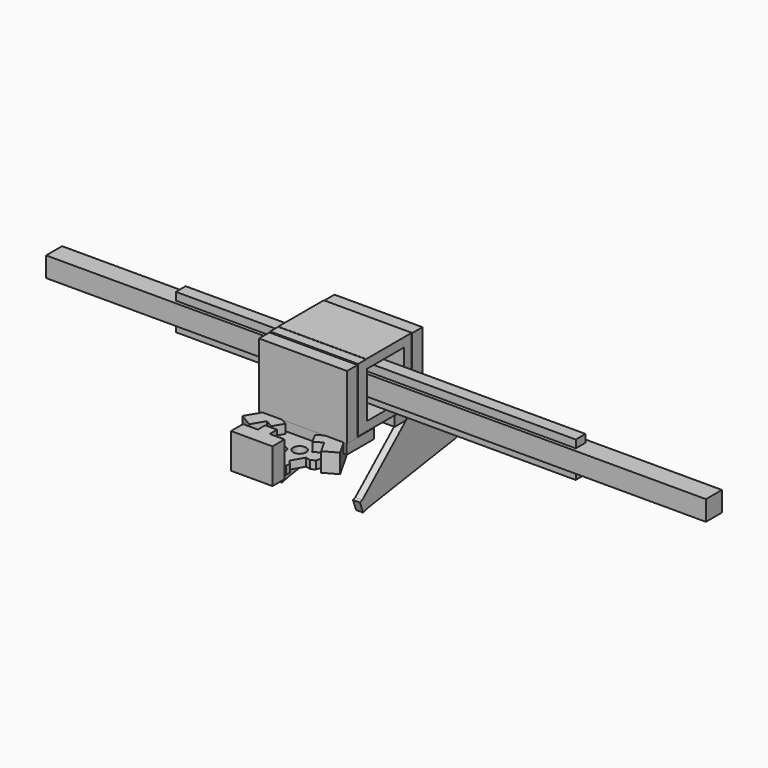
from build123d import *

# Parameters (mm, degrees)
EXTRUDE016_DEPTH                          = 88
EXTRUDE016_ROLL_ANGLE                     = -90
EXTRUDE016_PLACEMENT_ANGLE                = -90
EXTRUDE027_DEPTH                          = 88
EXTRUDE027_ROLL_ANGLE                     = -90
EXTRUDE027_PLACEMENT_ANGLE                = -90
SKETCH025_R                               = 5
SKETCH025_R_2                             = 6.5
EXTRUDE028_DEPTH                          = 8
EXTRUDE028_PLACEMENT_ANGLE                = 180
BOX054_W                                  = 660
BOX054_H                                  = 20
BOX054_DEPTH                              = 20
BOX004_W                                  = 400
BOX004_H                                  = 12.2
BOX004_DEPTH                              = 7.8
BOX053_W                                  = 47.55
BOX053_H                                  = 27.1
BOX053_DEPTH                              = 13
BOX002_W                                  = 400
BOX002_H                                  = 12.2
BOX002_DEPTH                              = 7.8
BOX013_W                                  = 47.55
BOX013_H                                  = 27.1
BOX013_DEPTH                              = 13
SKETCH020_W                               = 87.248978
SKETCH020_H                               = 34.299007
EXTRUDE024_DEPTH                          = 10
EXTRUDE025_DEPTH                          = 19
EXTRUDE019_DEPTH                          = 19
EXTRUDE022_DEPTH                          = 35
SKETCH021_W                               = 88
SKETCH021_H                               = 13
EXTRUDE023_DEPTH                          = 64
FUSION_PLACEMENT_ANGLE                    = 180
EXTRUDE026_DEPTH                          = 7
EXTRUDE026_ONTO_SKETCH028_ROLL_ANGLE      = 90
EXTRUDE026_ONTO_SKETCH028_PITCH_ANGLE     = -30
EXTRUDE026_ONTO_SKETCH028_PLACEMENT_ANGLE = -90
SKETCH017_W                               = 87.248978
SKETCH017_H                               = 34.299007
EXTRUDE021_DEPTH                          = 10
EXTRUDE017_DEPTH                          = 7
EXTRUDE017_ONTO_SKETCH016_ROLL_ANGLE      = 90
EXTRUDE017_ONTO_SKETCH016_PITCH_ANGLE     = -30
EXTRUDE017_ONTO_SKETCH016_PLACEMENT_ANGLE = -90
SKETCH019_W                               = 88
SKETCH019_H                               = 88
SKETCH019_R                               = 38
EXTRUDE018_DEPTH                          = 7
EXTRUDE018_PLACEMENT_ANGLE                = 30
SKETCH018_W                               = 88
SKETCH018_H                               = 13
EXTRUDE020_DEPTH                          = 64


with BuildPart() as extrude016:
    # Sketch026 → Extrude016 (new body)
    with BuildSketch(Plane.XY):
        Polygon((64.054652, 96.165242), (64.054652, 32.165242), (121.054652, 32.165242), (121.054652, 41.165242), (74.054652, 41.165242), (74.054652, 87.165242), (121.054652, 87.165242), (121.054652, 96.165242), align=None)
    extrude(amount=EXTRUDE016_DEPTH)


with BuildPart() as extrude016_1:
    # Extrude016 roll: moved
    add(extrude016.part.rotate(Axis((0, 0, 0), (1, 0, 0)), EXTRUDE016_ROLL_ANGLE))


with BuildPart() as extrude016_2:
    # Extrude016 placement: moved
    add(extrude016_1.part.moved(Location((173, 108, 74))).rotate(Axis((173, 108, 74), (0, 0, 1)), EXTRUDE016_PLACEMENT_ANGLE))


with BuildPart() as extrude027:
    # Sketch027 → Extrude027 (new body)
    with BuildSketch(Plane.XY):
        Polygon((40.130428, 23.337914), (40.130428, 69.237914), (41.130428, 69.237914), (41.130428, 78.237914), (51.130428, 78.237914), (51.130428, 14.337914), (41.130428, 14.337914), (41.130428, 23.337914), align=None)
    extrude(amount=EXTRUDE027_DEPTH)


with BuildPart() as extrude027_1:
    # Extrude027 roll: moved
    add(extrude027.part.rotate(Axis((0, 0, 0), (1, 0, 0)), EXTRUDE027_ROLL_ANGLE))


with BuildPart() as extrude027_2:
    # Extrude027 placement: moved
    add(extrude027_1.part.moved(Location((173, 28, 56))).rotate(Axis((173, 28, 56), (0, 0, 1)), EXTRUDE027_PLACEMENT_ANGLE))


with BuildPart() as obj1:
    # Sketch025 → Extrude028 (new body)
    with BuildSketch(Plane.XY):
        Polygon((92.138212, 71.477997), (99.138212, 59.353641), (104.147683, 60.457133), (108.020931, 58.166292), (109.466872, 53.244732), (104.121576, 44.207154), (96.375081, 48.788836), (90.266171, 38.460176), (98.012666, 33.878494), (92.66737, 24.840916), (87.657898, 23.737425), (83.784651, 26.028266), (82.33871, 30.949826), (68.33871, 30.949826), (66.794519, 26.058201), (62.873968, 23.849291), (57.887594, 25.052863), (52.731628, 34.204082), (60.572729, 38.621903), (54.682302, 49.076704), (46.841201, 44.658884), (41.688919, 53.803566), (43.23311, 58.695191), (47.15366, 60.904101), (52.140035, 59.700529), (59.140035, 71.824885), (55.679647, 75.611469), (55.72695, 80.11122), (59.266176, 83.824222), (69.765596, 83.713849), (69.67099, 74.714346), (81.670327, 74.588205), (81.764933, 83.587708), (92.264353, 83.477334), (95.72474, 79.69075), (95.677437, 75.190999), align=None)
        with Locations((76.588238, 60.640856)):
            Circle(SKETCH025_R, mode=Mode.SUBTRACT)
        with Locations((64.201959, 52.770623)):
            Circle(SKETCH025_R_2, mode=Mode.SUBTRACT)
        with Locations((88.200633, 52.51834)):
            Circle(SKETCH025_R_2, mode=Mode.SUBTRACT)
    extrude(amount=EXTRUDE028_DEPTH)


with BuildPart() as obj1_1:
    # Extrude028 placement: moved
    add(obj1.part.moved(Location((292, -2, -40))).rotate(Axis((292, -2, -40), (0, 0, 1)), EXTRUDE028_PLACEMENT_ANGLE))


with BuildPart() as vslot2020:
    # Box054 → Box054 (new body)
    with BuildSketch(Plane(origin=(-70, 0.5, 0), x_dir=(1, 0, 0), z_dir=(0, 0, 1))):
        with Locations((330, 10)):
            Rectangle(BOX054_W, BOX054_H)
    extrude(amount=BOX054_DEPTH)


with BuildPart() as rail_inferior:
    # Box004 → Box004 (new body)
    with BuildSketch(Plane(origin=(57, 4, -7.8), x_dir=(1, 0, 0), z_dir=(0, 0, 1))):
        with Locations((200, 6.1)):
            Rectangle(BOX004_W, BOX004_H)
    extrude(amount=BOX004_DEPTH)


with BuildPart() as mgn12h_inferior:
    # Box053 → Box053 (new body)
    with BuildSketch(Plane(origin=(193, -3, -13), x_dir=(1, 0, 0), z_dir=(0, 0, 1))):
        with Locations((23.775, 13.55)):
            Rectangle(BOX053_W, BOX053_H)
    extrude(amount=BOX053_DEPTH)


with BuildPart() as rail_superior:
    # Box002 → Box002 (new body)
    with BuildSketch(Plane(origin=(57, 4, 20), x_dir=(1, 0, 0), z_dir=(0, 0, 1))):
        with Locations((200, 6.1)):
            Rectangle(BOX002_W, BOX002_H)
    extrude(amount=BOX002_DEPTH)


with BuildPart() as mgn12h_superior:
    # Box013 → Box013 (new body)
    with BuildSketch(Plane(origin=(193, -3, 20), x_dir=(1, 0, 0), z_dir=(0, 0, 1))):
        with Locations((23.775, 13.55)):
            Rectangle(BOX013_W, BOX013_H)
    extrude(amount=BOX013_DEPTH)


with BuildPart() as extrude024:
    # Sketch020 → Extrude024 (new body)
    with BuildSketch(Plane.XY):
        with Locations((83.604523, 30.688192)):
            Rectangle(SKETCH020_W, SKETCH020_H)
    extrude(amount=EXTRUDE024_DEPTH)


with BuildPart() as extrude024_1:
    # Extrude024 placement: moved
    add(extrude024.part.moved(Location((3, 0, 9))))


with BuildPart() as extrude025:
    # Sketch022 → Extrude025 (new body)
    with BuildSketch(Plane.XY):
        Polygon((114.524362, 26.458614), (101.615411, 34.09792), (109.152859, 46.834751), (101.23537, 51.520192), (107.295886, 61.761293), (115.213376, 57.075852), (122.750824, 69.812683), (135.659775, 62.173377), align=None)
    extrude(amount=EXTRUDE025_DEPTH)


with BuildPart() as extrude019:
    # Sketch023 → Extrude019 (new body)
    with BuildSketch(Plane.XY):
        Polygon((37.353531, 63.041878), (50.403561, 70.4376), (57.700674, 57.56157), (65.704692, 62.097613), (71.571965, 51.744589), (63.567946, 47.208546), (70.865059, 34.332516), (57.815029, 26.936794), align=None)
    extrude(amount=EXTRUDE019_DEPTH)


with BuildPart() as extrude022:
    # Sketch024 → Extrude022 (new body)
    with BuildSketch(Plane.XY):
        Polygon((107.534802, 111.722114), (107.500671, 96.722153), (92.700709, 96.755829), (92.679776, 87.555852), (80.779807, 87.582929), (80.80074, 96.782905), (66.000778, 96.816581), (66.034909, 111.816542), align=None)
    extrude(amount=EXTRUDE022_DEPTH)


with BuildPart() as suporte1:
    # Sketch021 → Extrude023 (new body)
    with BuildSketch(Plane.XY):
        with Locations((83.577726, 41.368692)):
            Rectangle(SKETCH021_W, SKETCH021_H)
    extrude(amount=EXTRUDE023_DEPTH)


with BuildPart() as suporte1_1:
    # Extrude023 placement: moved
    add(suporte1.part.moved(Location((3, 0, 19))))

    # Fusion: union Extrude024, Extrude025, Extrude019, Extrude022
    add(extrude024_1.part)
    add(extrude025.part)
    add(extrude019.part)
    add(extrude022.part)


with BuildPart() as suporte1_2:
    # Fusion placement: moved
    add(suporte1_1.part.moved(Location((303.5, 11, -42))).rotate(Axis((303.5, 11, -42), (0, 0, 1)), FUSION_PLACEMENT_ANGLE))


with BuildPart() as extrude026:
    # Sketch028 as drawn → Extrude026 (new)
    with BuildSketch(Plane.XY):
        Polygon((-123.305188, 6.070855), (-123.344503, -1.169558), (-100.406639, -23.66512), (-15.520081, -91.56636), (-9.4672, -97.367993), (-1.018409, -90.281281), (-3.036737, -87.875028), (-34.868234, 6.09489), align=None)
    extrude(amount=EXTRUDE026_DEPTH)


with BuildPart() as extrude026_1:
    # Extrude026 onto Sketch028 roll: moved
    add(extrude026.part.rotate(Axis((0, 0, 0), (1, 0, 0)), EXTRUDE026_ONTO_SKETCH028_ROLL_ANGLE))


with BuildPart() as extrude026_2:
    # Extrude026 onto Sketch028 pitch: moved
    add(extrude026_1.part.rotate(Axis((0, 0, 0), (0, 1, 0)), EXTRUDE026_ONTO_SKETCH028_PITCH_ANGLE))


with BuildPart() as extrude026_3:
    # Extrude026 onto Sketch028 placement: moved
    add(extrude026_2.part.moved(Location((42.577726, 14, 39))).rotate(Axis((42.577726, 14, 39), (0, 0, 1)), EXTRUDE026_ONTO_SKETCH028_PLACEMENT_ANGLE))


with BuildPart() as extrude026_4:
    # Extrude026 placement: moved
    add(extrude026_3.part.moved(Location((7, 0, 0))))


with BuildPart() as extrude021:
    # Sketch017 → Extrude021 (new body)
    with BuildSketch(Plane.XY):
        with Locations((83.604523, 30.688192)):
            Rectangle(SKETCH017_W, SKETCH017_H)
    extrude(amount=EXTRUDE021_DEPTH)


with BuildPart() as extrude021_1:
    # Extrude021 placement: moved
    add(extrude021.part.moved(Location((3, 0, 9))))


with BuildPart() as extrude017:
    # Sketch016 as drawn → Extrude017 (new)
    with BuildSketch(Plane.XY):
        Polygon((-123.305188, 6.070855), (-123.344503, -1.169558), (-100.406639, -23.66512), (-15.520081, -91.56636), (-9.4672, -97.367993), (-1.018409, -90.281281), (-3.036737, -87.875028), (-34.868234, 6.09489), align=None)
    extrude(amount=EXTRUDE017_DEPTH)


with BuildPart() as extrude017_1:
    # Extrude017 onto Sketch016 roll: moved
    add(extrude017.part.rotate(Axis((0, 0, 0), (1, 0, 0)), EXTRUDE017_ONTO_SKETCH016_ROLL_ANGLE))


with BuildPart() as extrude017_2:
    # Extrude017 onto Sketch016 pitch: moved
    add(extrude017_1.part.rotate(Axis((0, 0, 0), (0, 1, 0)), EXTRUDE017_ONTO_SKETCH016_PITCH_ANGLE))


with BuildPart() as extrude017_3:
    # Extrude017 onto Sketch016 placement: moved
    add(extrude017_2.part.moved(Location((42.577726, 14, 39))).rotate(Axis((42.577726, 14, 39), (0, 0, 1)), EXTRUDE017_ONTO_SKETCH016_PLACEMENT_ANGLE))


with BuildPart() as extrude017_4:
    # Extrude017 placement: moved
    add(extrude017_3.part.moved(Location((88, 0, 0))))


with BuildPart() as extrude018:
    # Sketch019 → Extrude018 (new body)
    with BuildSketch(Plane.XY):
        with Locations((83.189821, 78.875904)):
            Rectangle(SKETCH019_W, SKETCH019_H)
        with Locations((83.189821, 78.875904)):
            Circle(SKETCH019_R, mode=Mode.SUBTRACT)
    extrude(amount=EXTRUDE018_DEPTH)


with BuildPart() as extrude018_1:
    # Extrude018 placement: moved
    add(extrude018.part.moved(Location((3, 14, 39))).rotate(Axis((3, 14, 39), (-1, 0, 0)), EXTRUDE018_PLACEMENT_ANGLE))


with BuildPart() as fusion002:
    # Sketch018 → Extrude020 (new body)
    with BuildSketch(Plane.XY):
        with Locations((83.577726, 41.368692)):
            Rectangle(SKETCH018_W, SKETCH018_H)
    extrude(amount=EXTRUDE020_DEPTH)


with BuildPart() as fusion002_1:
    # Extrude020 placement: moved
    add(fusion002.part.moved(Location((3, 0, 19))))

    # Fusion001: union Extrude026, Extrude021, Extrude017, Extrude018
    add(extrude026_4.part)
    add(extrude021_1.part)
    add(extrude017_4.part)
    add(extrude018_1.part)


with BuildPart() as fusion002_2:
    # Fusion001 placement: moved
    add(fusion002_1.part.moved(Location((130, 10, -42))))

    # Fusion002: union Extrude016, Extrude027, obj1, vSlot2020, Rail inferior, Mgn12h inferior, Rail superior, Mgn12h superior, Suporte1
    add(extrude016_2.part)
    add(extrude027_2.part)
    add(obj1_1.part)
    add(vslot2020.part)
    add(rail_inferior.part)
    add(mgn12h_inferior.part)
    add(rail_superior.part)
    add(mgn12h_superior.part)
    add(suporte1_2.part)


with BuildPart() as fusion002_3:
    # Fusion002 placement: moved
    add(fusion002_2.part.moved(Location((712, 498, -52))))


solid = fusion002_3.part
